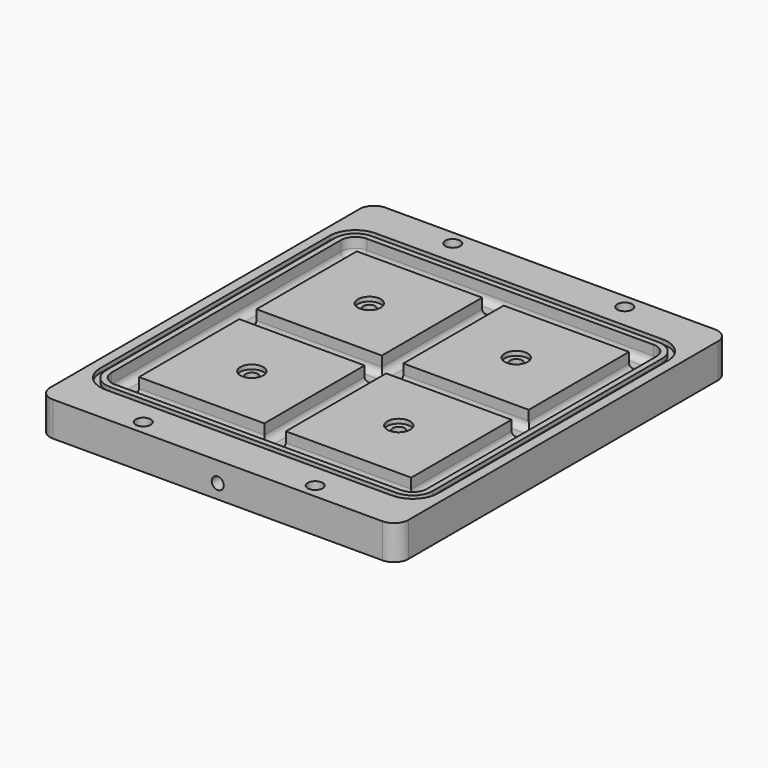
from build123d import *

# Parameters (mm, degrees)
F1_R      = 2.6
F2_DEPTH  = 12
F3_W      = 43.75
F3_H      = 43.75
F4_DEPTH  = 6
F5_R      = 2.5
F6_R      = 2.1
F7_DEPTH  = 25
F10_DEPTH = 1.5
F8_R      = 4
F11_DEPTH = 1.5
F12_R     = 2.1
F13_DEPTH = 25
F14_SIZE  = 1


with BuildPart() as f2:
    # F1 (on Top) → F2 (new body)
    with BuildSketch(Plane.XY):
        with BuildLine():
            Line((-57.5, -72.5), (57.5, -72.5))
            ThreePointArc((57.5, -72.5), (61.035534, -71.035534), (62.5, -67.5))
            Line((62.5, -67.5), (62.5, 67.5))
            ThreePointArc((62.5, 67.5), (61.035534, 71.035534), (57.5, 72.5))
            Line((57.5, 72.5), (-57.5, 72.5))
            ThreePointArc((-57.5, 72.5), (-61.035534, 71.035534), (-62.5, 67.5))
            Line((-62.5, 67.5), (-62.5, -67.5))
            ThreePointArc((-62.5, -67.5), (-61.035534, -71.035534), (-57.5, -72.5))
        make_face()
        with Locations((-30, -67.5)):
            Circle(F1_R, mode=Mode.SUBTRACT)
        with Locations((30, -67.5)):
            Circle(F1_R, mode=Mode.SUBTRACT)
        with Locations((-30, 67.5)):
            Circle(F1_R, mode=Mode.SUBTRACT)
        with Locations((30, 67.5)):
            Circle(F1_R, mode=Mode.SUBTRACT)
    extrude(amount=F2_DEPTH)

    # F3 (on face) → F4 (cut)
    with BuildSketch(Plane.XY.offset(12)):
        with BuildLine():
            Line((-50, -55), (50, -55))
            ThreePointArc((50, -55), (53.535534, -53.535534), (55, -50))
            Line((55, -50), (55, 50))
            ThreePointArc((55, 50), (53.535534, 53.535534), (50, 55))
            Line((50, 55), (-50, 55))
            ThreePointArc((-50, 55), (-53.535534, 53.535534), (-55, 50))
            Line((-55, 50), (-55, -50))
            ThreePointArc((-55, -50), (-53.535534, -53.535534), (-50, -55))
        make_face()
        with Locations((-25.625, -25.625)):
            Rectangle(F3_W, F3_H, mode=Mode.SUBTRACT)
        with Locations((25.625, -25.625)):
            Rectangle(F3_W, F3_H, mode=Mode.SUBTRACT)
        with Locations((-25.625, 25.625)):
            Rectangle(F3_W, F3_H, mode=Mode.SUBTRACT)
        with Locations((25.625, 25.625)):
            Rectangle(F3_W, F3_H, mode=Mode.SUBTRACT)
    extrude(amount=-F4_DEPTH, mode=Mode.SUBTRACT)

    # F5
    f5_edges = [f2.edges().sort_by_distance(p)[0] for p in [
        (0, -55, 6),
        (53.535534, -53.535534, 6),
        (55, 0, 6),
        (53.535534, 53.535534, 6),
        (0, 55, 6),
        (-53.535534, 53.535534, 6),
        (-55, 0, 6),
        (-53.535534, -53.535534, 6),
        (-25.625, -47.5, 6),
        (-47.5, -25.625, 6),
        (-25.625, -3.75, 6),
        (-3.75, -25.625, 6),
        (47.5, -25.625, 6),
        (25.625, -47.5, 6),
        (3.75, -25.625, 6),
        (25.625, -3.75, 6),
        (-25.625, 3.75, 6),
        (-47.5, 25.625, 6),
        (-25.625, 47.5, 6),
        (-3.75, 25.625, 6),
        (25.625, 47.5, 6),
        (47.5, 25.625, 6),
        (25.625, 3.75, 6),
        (3.75, 25.625, 6),
    ]]
    fillet(f5_edges, radius=F5_R)

    # F6 (on face) → F7 (cut)
    with BuildSketch(Plane.XY.offset(12)):
        with Locations((-25.625, 25.625)):
            Circle(F6_R)
        with Locations((25.625, 25.625)):
            Circle(F6_R)
        with Locations((25.625, -25.625)):
            Circle(F6_R)
        with Locations((-25.625, -25.625)):
            Circle(F6_R)
    extrude(amount=-F7_DEPTH, mode=Mode.SUBTRACT)

    # F9 (on face) → F10 (cut)
    with BuildSketch(Plane.XY.offset(12)):
        with BuildLine():
            Line((50, 59), (-50, 59))
            ThreePointArc((-50, 59), (-56.363961, 56.363961), (-59, 50))
            Line((-59, 50), (-59, -50))
            ThreePointArc((-59, -50), (-56.363961, -56.363961), (-50, -59))
            Line((-50, -59), (50, -59))
            ThreePointArc((50, -59), (56.363961, -56.363961), (59, -50))
            Line((59, -50), (59, 50))
            ThreePointArc((59, 50), (56.363961, 56.363961), (50, 59))
        make_face()
        with BuildLine():
            ThreePointArc((57, -50), (54.949747, -54.949747), (50, -57))
            Line((50, -57), (-50, -57))
            ThreePointArc((-50, -57), (-54.949747, -54.949747), (-57, -50))
            Line((-57, -50), (-57, 50))
            ThreePointArc((-57, 50), (-54.949747, 54.949747), (-50, 57))
            Line((-50, 57), (50, 57))
            ThreePointArc((50, 57), (54.949747, 54.949747), (57, 50))
            Line((57, 50), (57, -50))
        make_face(mode=Mode.SUBTRACT)
    extrude(amount=-F10_DEPTH, mode=Mode.SUBTRACT)

    # F8 (on face) → F11 (cut)
    with BuildSketch(Plane.XY.offset(12)):
        with Locations((-25.625, 25.625)):
            Circle(F8_R)
        with Locations((-25.625, -25.625)):
            Circle(F8_R)
        with Locations((25.625, 25.625)):
            Circle(F8_R)
        with Locations((25.625, -25.625)):
            Circle(F8_R)
    extrude(amount=-F11_DEPTH, mode=Mode.SUBTRACT)

    # F12 (on face) → F13 (cut)
    with BuildSketch(Plane.XZ.offset(72.5)):
        with Locations((0, 5)):
            Circle(F12_R)
    extrude(amount=-F13_DEPTH, mode=Mode.SUBTRACT)

    # F14
    f14_edges = [f2.edges().sort_by_distance(p)[0] for p in [
        (-0.551164, -47.5, 2.97362),
    ]]
    chamfer(f14_edges, length=F14_SIZE)


solid = f2.part
